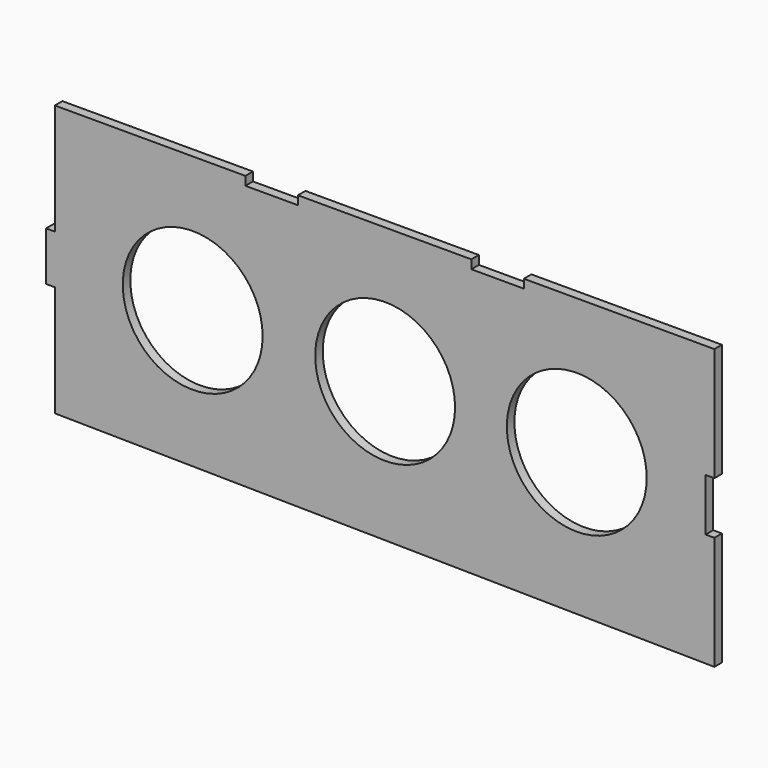
from build123d import *

# Parameters (mm, degrees)
F0_R     = 25.4
F1_DEPTH = 3.429


with BuildPart() as f1:
    # F0 (on Front) → F1 (new body)
    with BuildSketch(Plane.XZ):
        Polygon((644.354287, -53.912491), (644.354287, -71.692491), (647.529287, -71.692491), (647.529287, -112.014991), (887.051287, -115.189991), (887.051287, -73.914991), (883.876287, -73.914991), (883.876287, -54.864991), (887.051287, -54.864991), (887.051287, -13.589991), (817.836287, -13.589991), (817.836287, -16.764991), (798.786287, -16.764991), (798.786287, -13.589991), (735.794287, -13.589991), (735.794287, -16.764991), (716.744287, -16.764991), (716.744287, -13.589991), (647.529287, -13.589991), (647.529287, -53.912491), align=None)
        with Locations((697.595912, -62.823446)):
            Circle(F0_R, mode=Mode.SUBTRACT)
        with Locations((767.482107, -62.823446)):
            Circle(F0_R, mode=Mode.SUBTRACT)
        with Locations((837.082629, -62.823446)):
            Circle(F0_R, mode=Mode.SUBTRACT)
    extrude(amount=F1_DEPTH)


solid = f1.part
